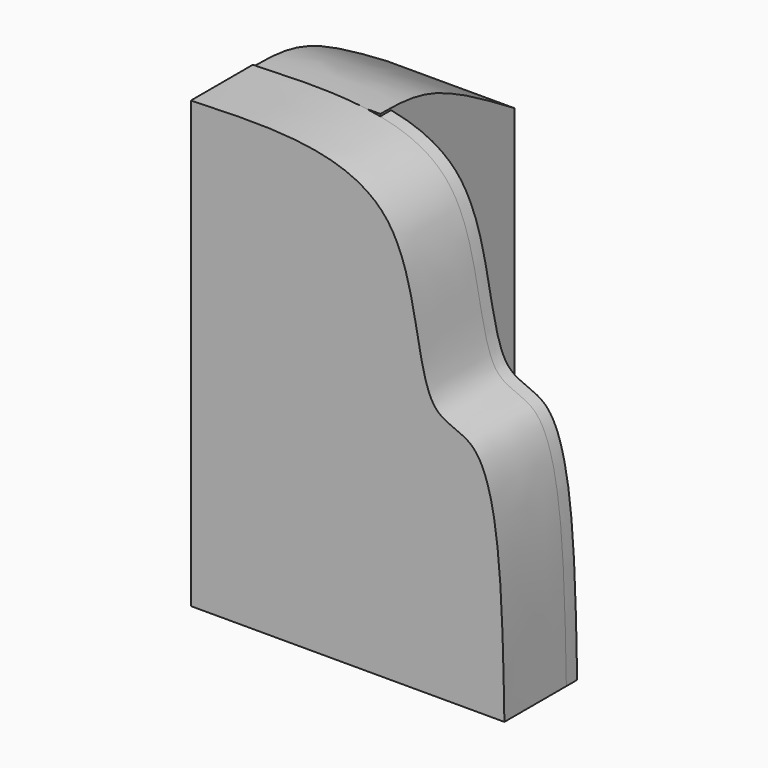
from build123d import *

# Parameters (mm, degrees)
F1_DEPTH = 18.6145622283
F3_DEPTH = 30.6332651526
F4_DEPTH = 3.2437127084


with BuildPart() as f1:
    # F0 (on Front) → F1 (new body)
    with BuildSketch(Plane.XZ):
        with BuildLine():
            add(Edge.make_bspline(
                [(0, 31.4521491528), (19.3250022149, 32.1420349874), (55.63183594, 33.4381572148), (53.4807526814, -18.3300440163), (74.2555818679, -15.9806421094), (74.9053246961, -51.2094172374), (75.3536224365, -75.5153298378)],
                knots=[0, 0, 0, 0, 0.2907666026, 0.5462774898, 0.6869562964, 1, 1, 1, 1], degree=3))
            Line((0, 31.4521491528), (0, -75.5153298378))
            Line((0, -75.5153298378), (75.3536224365, -75.5153298378))
        make_face()
    extrude(amount=F1_DEPTH)

    # F2 (on Right) → F3 (join)
    with BuildSketch(Plane.YZ):
        with BuildLine():
            add(Edge.make_bspline(
                [(0, 31.0191214085), (4.6584274068, 30.9906545137), (15.8166830326, 30.9224686442), (31.2721852153, 21.4055246166), (40.2752161026, 15.8617794514)],
                knots=[0, 0, 0, 0, 0.4174869414, 1, 1, 1, 1], degree=3))
            Line((0, 31.0191214085), (0, -75.9483873844))
            Line((0, -75.9483873844), (40.2752161026, -75.9483873844))
            Line((40.2752161026, -75.9483873844), (40.2752161026, 15.8617794514))
        make_face()
        with BuildLine():
            add(Edge.make_bspline(
                [(0, 31.0191214085), (4.6584274068, 30.9906545137), (15.8166830326, 30.9224686442), (31.2721852153, 21.4055246166), (40.2752161026, 15.8617794514)],
                knots=[0, 0, 0, 0, 0.4174869414, 1, 1, 1, 1], degree=3))
            Line((0, 31.0191214085), (0, -75.9483873844))
            Line((0, -75.9483873844), (40.2752161026, -75.9483873844))
            Line((40.2752161026, -75.9483873844), (40.2752161026, 15.8617794514))
        make_face()
    extrude(amount=F3_DEPTH)

    # F4 (add): a face of the model
    f4_faces = [f1.faces().sort_by_distance(p)[0] for p in [
        (49.1816157145, 0, -32.8121359499),
    ]]
    extrude(f4_faces, amount=F4_DEPTH)


solid = f1.part
